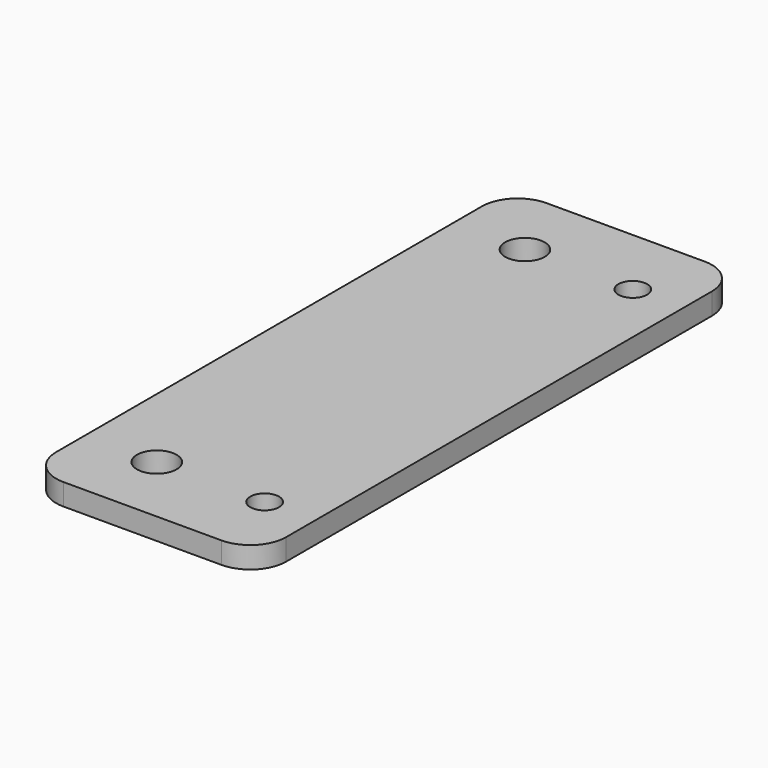
from build123d import *

# Parameters (mm, degrees)
F0_R     = 2.75
F0_R_2   = 2
F1_DEPTH = 3
F2_DEPTH = 3


with BuildPart() as f1:
    # F0 (on Top) → F1 (new body)
    with BuildSketch(Plane.XY):
        with BuildLine():
            Line((-79.612069, -8.387931), (-79.612069, -22.387931))
            Line((-79.612069, -22.387931), (-79.612069, -37.387931))
            ThreePointArc((-79.612069, -37.387931), (-78.147603, -40.923465), (-74.612069, -42.387931))
            Line((-74.612069, -42.387931), (-64.612069, -42.387931))
            Line((-64.612069, -42.387931), (-52.612069, -42.387931))
            ThreePointArc((-52.612069, -42.387931), (-49.076535, -40.923465), (-47.612069, -37.387931))
            Line((-47.612069, -37.387931), (-47.612069, 36.612069))
            ThreePointArc((-47.612069, 36.612069), (-49.076535, 40.147603), (-52.612069, 41.612069))
            Line((-52.612069, 41.612069), (-64.612069, 41.612069))
            Line((-64.612069, 41.612069), (-67.112069, 41.612069))
            Line((-67.112069, 41.612069), (-74.612069, 41.612069))
            ThreePointArc((-74.612069, 41.612069), (-78.147603, 40.147603), (-79.612069, 36.612069))
            Line((-79.612069, 36.612069), (-79.612069, 21.612069))
            Line((-79.612069, 21.612069), (-79.612069, -8.387931))
        make_face()
        with Locations((-69.612069, -32.387931)):
            Circle(F0_R, mode=Mode.SUBTRACT)
        with Locations((-54.612069, -32.387931)):
            Circle(F0_R_2, mode=Mode.SUBTRACT)
        with Locations((-69.612069, 31.612069)):
            Circle(F0_R, mode=Mode.SUBTRACT)
        with Locations((-54.612069, 31.612069)):
            Circle(F0_R_2, mode=Mode.SUBTRACT)
    extrude(amount=F1_DEPTH)


with BuildPart() as f2:
    # F0 (on Top) → F2 (new body)
    with BuildSketch(Plane.XY):
        with BuildLine():
            Line((74.387931, -13.387931), (74.387931, -8.387931))
            Line((74.387931, -8.387931), (74.387931, 21.612069))
            Line((74.387931, 21.612069), (74.387931, 36.612069))
            ThreePointArc((74.387931, 36.612069), (72.923465, 40.147603), (69.387931, 41.612069))
            Line((69.387931, 41.612069), (59.387931, 41.612069))
            Line((59.387931, 41.612069), (52.387931, 41.612069))
            ThreePointArc((52.387931, 41.612069), (48.852397, 40.147603), (47.387931, 36.612069))
            Line((47.387931, 36.612069), (47.387931, -37.387931))
            ThreePointArc((47.387931, -37.387931), (48.852397, -40.923465), (52.387931, -42.387931))
            Line((52.387931, -42.387931), (59.387931, -42.387931))
            Line((59.387931, -42.387931), (69.387931, -42.387931))
            ThreePointArc((69.387931, -42.387931), (72.923465, -40.923465), (74.387931, -37.387931))
            Line((74.387931, -37.387931), (74.387931, -28.387931))
            Line((74.387931, -28.387931), (74.387931, -22.387931))
            Line((74.387931, -22.387931), (74.387931, -13.387931))
        make_face()
        with Locations((54.387931, -32.387931)):
            Circle(F0_R_2, mode=Mode.SUBTRACT)
        with Locations((64.387931, -32.387931)):
            Circle(F0_R, mode=Mode.SUBTRACT)
        with Locations((54.387931, 31.612069)):
            Circle(F0_R_2, mode=Mode.SUBTRACT)
        with Locations((64.387931, 31.612069)):
            Circle(F0_R, mode=Mode.SUBTRACT)
    extrude(amount=F2_DEPTH)


solid = f1.part
